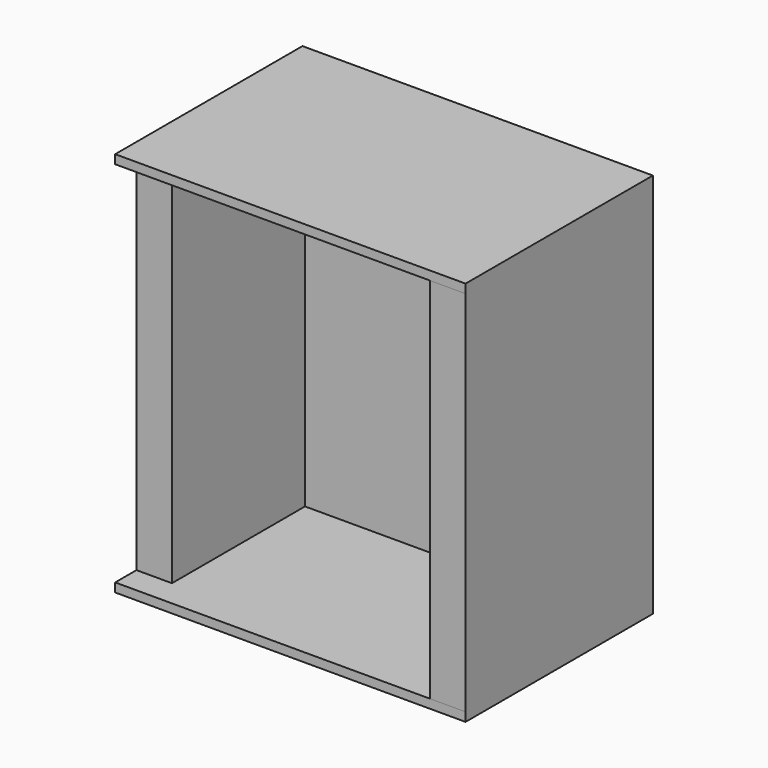
from build123d import *

# Parameters (mm, degrees)
F1_DEPTH = 2108.2
F2_W     = 2006.6
F2_H     = 1340.641223
F3_DEPTH = 50.8
F4_W     = 2006.6
F4_H     = 1340.641223
F5_DEPTH = 50.8


with BuildPart() as f1:
    # F0 (on Top) → F1 (new body)
    with BuildSketch(Plane.XY):
        Polygon((-800.1, -952.5), (-800.1, 0), (800.1, 0), (800.1, -1104.9), (1003.3, -1104.9), (1003.3, 235.741223), (-1003.3, 235.741223), (-1003.3, -952.5), align=None)
    extrude(amount=F1_DEPTH)

    # F2 (on face) → F3 (join)
    with BuildSketch(Plane(origin=(0, 0, 0), x_dir=(1, 0, 0), z_dir=(0, 0, -1))):
        with Locations((0, 434.579388)):
            Rectangle(F2_W, F2_H)
    extrude(amount=F3_DEPTH)

    # F4 (on face) → F5 (join)
    with BuildSketch(Plane.XY.offset(2108.2)):
        with Locations((0, -434.579388)):
            Rectangle(F4_W, F4_H)
    extrude(amount=F5_DEPTH)


solid = f1.part
